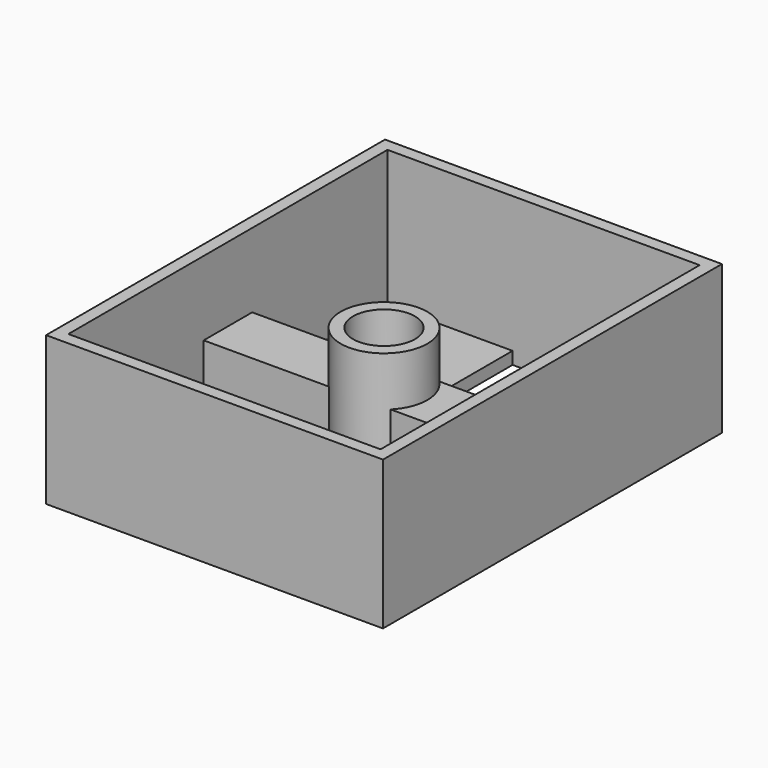
from build123d import *

# Parameters (mm, degrees)
F0_W     = 27.2
F0_H     = 34.2
F0_W_2   = 25.2
F0_H_2   = 32.2
F1_DEPTH = 12
F2_W     = 10.1
F2_H     = 32.2
F3_DEPTH = 1
F4_R     = 3.5
F4_R_2   = 2.5
F5_DEPTH = 10
F7_DEPTH = 25.4
F8_W     = 10.1
F8_H     = 4.89898
F9_DEPTH = 5


with BuildPart() as f1:
    # F0 (on Top) → F1 (new body)
    with BuildSketch(Plane.XY):
        Rectangle(F0_W, F0_H)
        Rectangle(F0_W_2, F0_H_2, mode=Mode.SUBTRACT)
    extrude(amount=F1_DEPTH)

    # F2 (on Top) → F3 (join)
    with BuildSketch(Plane.XY):
        with Locations((-7.55, 0)):
            Rectangle(F2_W, F2_H)
        with Locations((7.55, 0)):
            Rectangle(F2_W, F2_H)
    extrude(amount=F3_DEPTH)

    # F4 (on Top) → F5 (join)
    with BuildSketch(Plane.XY):
        Circle(F4_R)
        Circle(F4_R_2, mode=Mode.SUBTRACT)
    extrude(amount=F5_DEPTH)

    # F6 (on face) → F7 (cut)
    with BuildSketch(Plane.XY.offset(1)):
        with BuildLine():
            Line((-7.6, 4.1), (-7.6, 8.1))
            Line((-7.6, 8.1), (-3.6, 8.1))
            ThreePointArc((-3.6, 8.1), (-10.428427, 10.928427), (-7.6, 4.1))
        make_face()
        with BuildLine():
            ThreePointArc((11.6, 8.1), (7.6, 12.1), (3.6, 8.1))
            Line((3.6, 8.1), (7.6, 8.1))
            Line((7.6, 8.1), (7.6, 4.1))
            ThreePointArc((7.6, 4.1), (10.428427, 5.271573), (11.6, 8.1))
        make_face()
        with BuildLine():
            Line((7.6, 8.1), (3.6, 8.1))
            ThreePointArc((3.6, 8.1), (4.771573, 5.271573), (7.6, 4.1))
            Line((7.6, 4.1), (7.6, 8.1))
        make_face()
        with BuildLine():
            Line((-3.6, 8.1), (-7.6, 8.1))
            Line((-7.6, 8.1), (-7.6, 4.1))
            ThreePointArc((-7.6, 4.1), (-4.771573, 5.271573), (-3.6, 8.1))
        make_face()
        with BuildLine():
            Line((-7.6, -8.1), (-7.6, -4.1))
            ThreePointArc((-7.6, -4.1), (-10.428427, -10.928427), (-3.6, -8.1))
            Line((-3.6, -8.1), (-7.6, -8.1))
        make_face()
        with BuildLine():
            ThreePointArc((-3.6, -8.1), (-4.771573, -5.271573), (-7.6, -4.1))
            Line((-7.6, -4.1), (-7.6, -8.1))
            Line((-7.6, -8.1), (-3.6, -8.1))
        make_face()
        with BuildLine():
            ThreePointArc((11.6, -8.1), (10.428427, -5.271573), (7.6, -4.1))
            Line((7.6, -4.1), (7.6, -8.1))
            Line((7.6, -8.1), (3.6, -8.1))
            ThreePointArc((3.6, -8.1), (7.6, -12.1), (11.6, -8.1))
        make_face()
        with BuildLine():
            Line((7.6, -8.1), (7.6, -4.1))
            ThreePointArc((7.6, -4.1), (4.771573, -5.271573), (3.6, -8.1))
            Line((3.6, -8.1), (7.6, -8.1))
        make_face()
    extrude(amount=-F7_DEPTH, mode=Mode.SUBTRACT)

    # F8 (on face) → F9 (join)
    with BuildSketch(Plane.XY.offset(1)):
        with BuildLine():
            Line((-12.6, 2.44949), (-12.6, -2.44949))
            Line((-12.6, -2.44949), (-2.5, -2.44949))
            ThreePointArc((-2.5, -2.44949), (-3.5, 0), (-2.5, 2.44949))
            Line((-2.5, 2.44949), (-12.6, 2.44949))
        make_face()
        with Locations((7.55, 0)):
            Rectangle(F8_W, F8_H)
    extrude(amount=F9_DEPTH)


solid = f1.part
